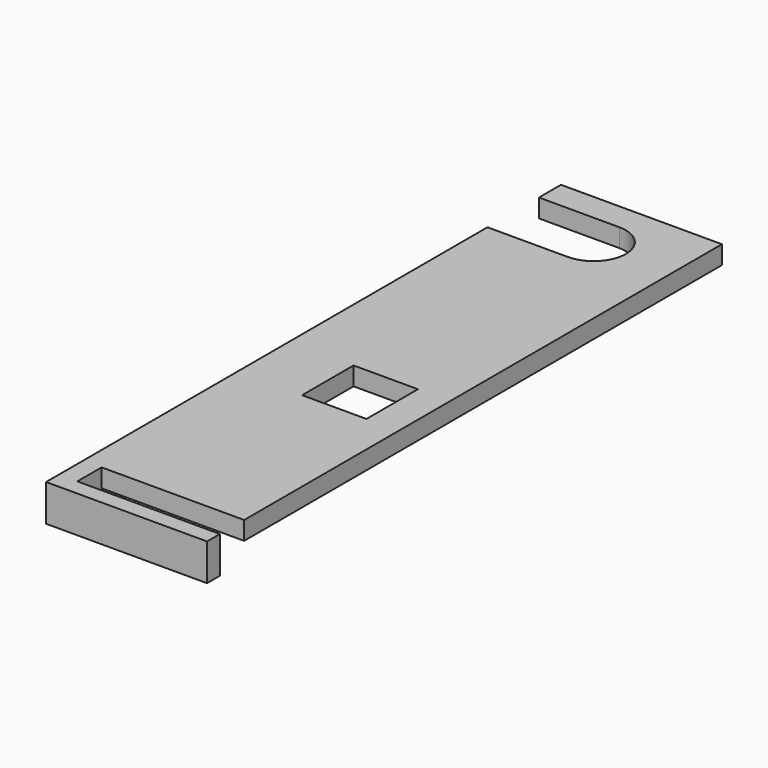
from build123d import *

# Parameters (mm, degrees)
F0_W     = 14
F0_H     = 14
F1_DEPTH = 4
F2_W     = 31
F2_H     = 3.5
F3_DEPTH = 4


with BuildPart() as f1:
    # F0 (on Top) → F1 (new body)
    with BuildSketch(Plane.XY):
        with BuildLine():
            Line((17.5, -59.9), (17.5, 70))
            Line((17.5, 70), (-17.5, 70))
            Line((-17.5, 70), (-17.5, 64))
            Line((-17.5, 64), (0, 64))
            ThreePointArc((0, 64), (7, 57), (0, 50))
            Line((0, 50), (-17.5, 50))
            Line((-17.5, 50), (-17.5, -70))
            Line((-17.5, -70), (17.5, -70))
            Line((17.5, -70), (17.5, -66.5))
            Line((17.5, -66.5), (-13.5, -66.5))
            Line((-13.5, -66.5), (-13.5, -59.9))
            Line((-13.5, -59.9), (17.5, -59.9))
        make_face()
        with Locations((3.5, -10.9)):
            Rectangle(F0_W, F0_H, mode=Mode.SUBTRACT)
    extrude(amount=F1_DEPTH)

    # F2 (on face) → F3 (join)
    with BuildSketch(Plane(origin=(0, 0, 0), x_dir=(1, 0, 0), z_dir=(0, 0, -1))):
        Polygon((-13.5, 70), (-17.5, 70), (-17.5, -20), (-13.5, -20), (-13.5, 66.5), align=None)
        with Locations((2, 68.25)):
            Rectangle(F2_W, F2_H)
    extrude(amount=F3_DEPTH)


solid = f1.part
